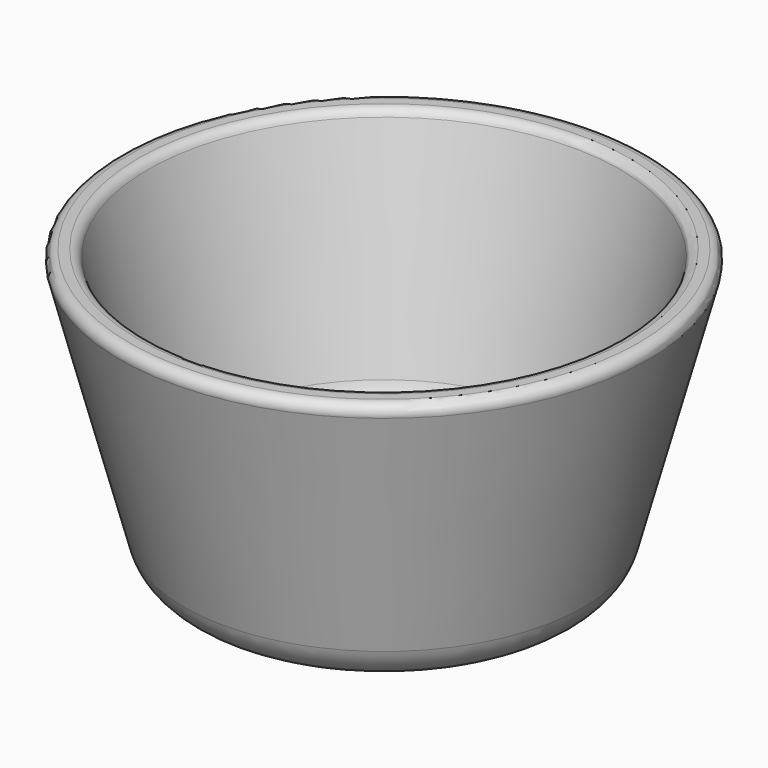
from build123d import *

# Parameters (mm, degrees)
F0_R     = 50.7996215071
F1_DEPTH = 76.2
F1_TAPER = -15
F2_R     = 63.5
F3_DEPTH = 63.5
F3_TAPER = 15
F4_R     = 2.54
F5_R     = 12.7
F6_R     = 10.16


with BuildPart() as f1:
    # F0 (on Top) → F1 (new body)
    with BuildSketch(Plane.XY):
        Circle(F0_R)
    extrude(amount=F1_DEPTH, taper=F1_TAPER)

    # F2 (on face) → F3 (cut)
    with BuildSketch(Plane.XY.offset(76.2)):
        Circle(F2_R)
    extrude(amount=-F3_DEPTH, taper=F3_TAPER, mode=Mode.SUBTRACT)

    # F4
    f4_edges = [f1.edges().sort_by_distance(p)[0] for p in [
        (-71.21735, 0, 76.2),
        (-63.5, 0, 76.2),
    ]]
    fillet(f4_edges, radius=F4_R)

    # F5
    f5_edges = [f1.edges().sort_by_distance(p)[0] for p in [
        (-50.799622, 0, 0),
    ]]
    fillet(f5_edges, radius=F5_R)

    # F6
    f6_edges = [f1.edges().sort_by_distance(p)[0] for p in [
        (-46.485226, 0, 12.7),
    ]]
    fillet(f6_edges, radius=F6_R)


solid = f1.part
